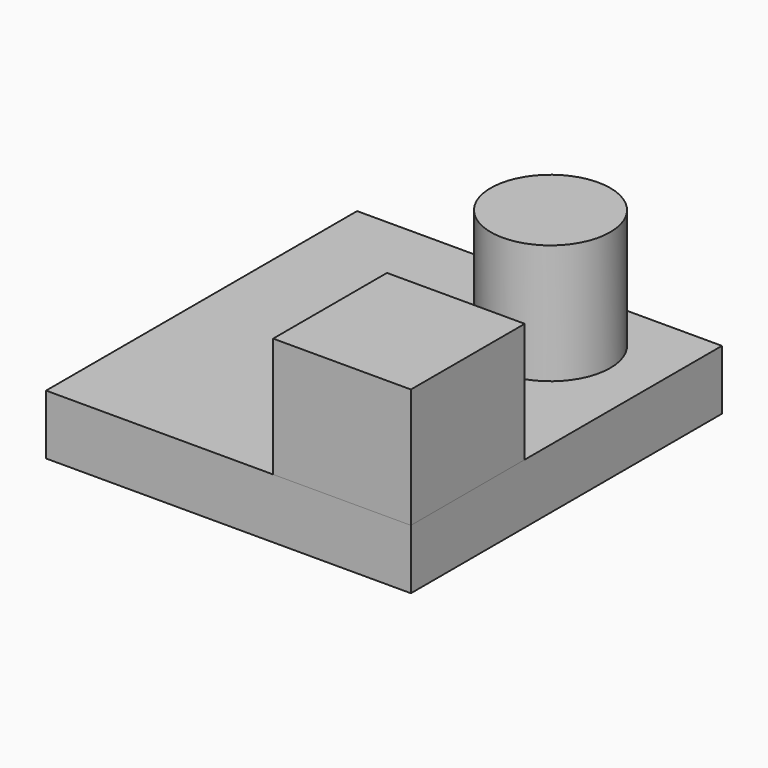
from build123d import *

# Parameters (mm, degrees)
F0_W     = 929.743558
F0_H     = 990.773723
F1_DEPTH = 152.4
F2_R     = 152.4
F3_DEPTH = 304.8
F4_W     = 351.064283
F4_H     = 362.588108
F5_DEPTH = 304.8


with BuildPart() as f1:
    # F0 (on Top) → F1 (new body)
    with BuildSketch(Plane.XY):
        with Locations((58.173105, -745.219447)):
            Rectangle(F0_W, F0_H)
    extrude(amount=F1_DEPTH)

    # F4 (on face) → F5 (join)
    with BuildSketch(Plane.XY.offset(152.4)):
        with Locations((347.512743, -1059.312254)):
            Rectangle(F4_W, F4_H)
    extrude(amount=F5_DEPTH)


with BuildPart() as f3:
    # F2 (on face) → F3 (new body)
    with BuildSketch(Plane.XY.offset(152.4)):
        with Locations((256.940961, -463.293552)):
            Circle(F2_R)
    extrude(amount=F3_DEPTH)


solid = Compound([f1.part, f3.part])
